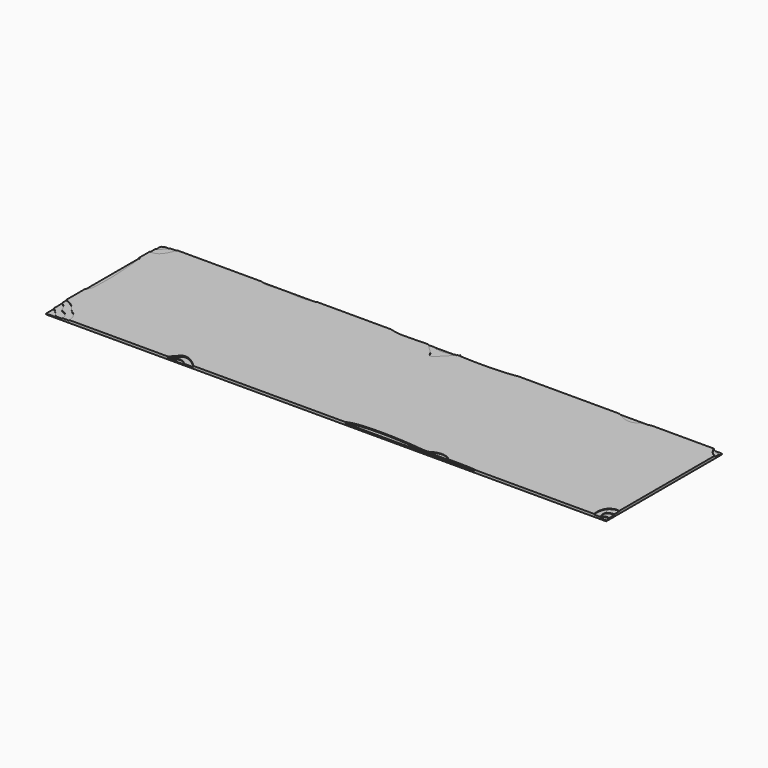
from build123d import *

# Parameters (mm, degrees)
F0_W     = 255.466666
F0_H     = 65.999307
F1_DEPTH = 1.2
F3_DEPTH = 0.8
F4_DEPTH = 0.5
F5_DEPTH = 0.25


with BuildPart() as f1:
    # F0 (on Top) → F1 (new body)
    with BuildSketch(Plane.XY):
        with Locations((130.610639, 67.4597295)):
            Rectangle(F0_W, F0_H)
    extrude(amount=F1_DEPTH)

    # F2 (on face) → F3 (cut)
    with BuildSketch(Plane.XY.offset(1.2)):
        Polygon((2.877306, 100.459383), (2.877306, 99.2435484793), (3.021559, 99.334143), (3.265042, 99.507228), (3.493414, 99.691552), (3.705747, 99.88709), (3.901115, 100.093818), (4.078592, 100.31171), (4.1808890512, 100.459383), align=None)
        Polygon((2.877306, 38.7948509159), (2.877306, 34.460076), (7.2787541615, 34.460076), (7.256907, 34.494204), (7.170691, 34.613388), (6.976267, 34.857231), (6.512846, 35.412248), (6.19818, 35.773556), (5.837766, 36.173188), (5.438772, 36.59799), (5.008366, 37.034804), (4.553715, 37.470474), (4.081985, 37.891844), (3.600346, 38.285757), (3.358049, 38.468307), (3.115963, 38.639058), align=None)
        Polygon((60.53402, 34.648289), (60.3582702038, 34.460076), (66.0947354547, 34.460076), (65.844558, 34.665957), (65.592715, 34.859333), (65.340937, 35.042719), (65.089678, 35.215229), (64.839387, 35.375979), (64.590518, 35.524082), (64.343522, 35.658655), (64.098851, 35.77881), (63.856957, 35.883664), (63.618291, 35.97233), (63.383305, 36.043923), (63.152452, 36.097559), (62.926182, 36.13235), (62.704948, 36.147413), (62.489202, 36.141862), (62.279395, 36.114812), (62.075979, 36.065376), (61.879405, 35.992671), (61.690127, 35.895809), (61.508595, 35.773907), (61.335261, 35.626079), (61.170577, 35.451439), (61.014996, 35.249102), (60.864158, 35.043213), (60.70352, 34.843104), align=None)
        Polygon((255.846045, 34.668876), (255.837548856, 34.460076), (258.343972, 34.460076), (258.343972, 36.1139409476), (257.852967, 36.223479), (257.65214, 36.258137), (257.463683, 36.278211), (257.287297, 36.28416), (257.122685, 36.276443), (256.969547, 36.255518), (256.827584, 36.221845), (256.696497, 36.175882), (256.575986, 36.118089), (256.465754, 36.048925), (256.365501, 35.968848), (256.274928, 35.878318), (256.193736, 35.777793), (256.121627, 35.667733), (256.0583, 35.548597), (256.003458, 35.420843), (255.956801, 35.28493), (255.91803, 35.141318), (255.886846, 34.990466), (255.862951, 34.832832), align=None)
        Polygon((258.133834, 98.851997), (258.343972, 98.8066264079), (258.343972, 100.459383), (254.9705361208, 100.459383), (254.978898, 100.452683), (255.27952, 100.228536), (255.585661, 100.016739), (255.896491, 99.818), (256.21118, 99.633028), (256.528896, 99.462532), (256.848811, 99.30722), (257.170092, 99.167802), (257.49191, 99.044986), (257.813434, 98.939482), align=None)
        Polygon((124.6993980387, 100.459383), (107.3982025616, 100.459383), (107.595793, 100.397869), (108.055712, 100.267898), (108.553016, 100.139741), (109.088256, 100.013465), (109.661987, 99.889137), (110.274763, 99.766827), (110.927137, 99.646601), (111.287587, 99.595734), (111.732684, 99.554824), (112.25682, 99.523259), (112.854389, 99.500427), (113.519785, 99.485714), (114.247401, 99.478509), (115.866864, 99.484172), (117.667926, 99.512516), (119.605733, 99.558643), (121.63543, 99.617651), (123.712165, 99.684642), (125.1631565065, 99.7334180179), (124.935927, 100.062966), (124.725684, 100.408805), align=None)
        Polygon((125.8266011162, 100.459383), (124.6993980387, 100.459383), (124.725684, 100.408805), (124.935927, 100.062966), (125.1631565065, 99.7334180179), (127.6285350032, 99.8162933104), (126.945207, 100.047647), (126.106336, 100.350016), align=None)
        Polygon((139.0520137849, 100.459383), (125.8266011162, 100.459383), (126.106336, 100.350016), (126.945207, 100.047647), (127.6285350032, 99.8162933104), (127.827332, 99.822976), (131.592403, 99.934449), (133.231519, 99.967864), (134.648551, 99.979865), (135.259767, 99.976305), (135.798643, 99.965553), (136.259571, 99.946999), (136.636944, 99.920029), (137.3443546456, 99.8575968767), (137.858013, 100.018841), (138.78026, 100.32885), (139.013110285, 100.4127183446), align=None)
        Polygon((138.83596, 100.200227), (139.013110285, 100.4127183446), (138.78026, 100.32885), (137.858013, 100.018841), (137.3443546456, 99.8575968767), (137.433108, 99.849764), (138.292761, 99.782758), (138.4669161482, 99.770763512), align=None)
        Polygon((165.3949709922, 100.459383), (139.1426690399, 100.459383), (139.013110285, 100.4127183446), (138.83596, 100.200227), (138.4669161482, 99.770763512), (139.211053, 99.719513), (140.183134, 99.660529), (142.269267, 99.557342), (144.512363, 99.477197), (145.680649, 99.447015), (146.873627, 99.424093), (148.086447, 99.408931), (149.31426, 99.40203), (150.552217, 99.403888), (151.795468, 99.415007), (153.039163, 99.435887), (154.278453, 99.467026), (155.508488, 99.508925), (156.724419, 99.562084), (157.921397, 99.627004), (159.09457, 99.704183), (160.239091, 99.794122), (161.35011, 99.897321), (162.422776, 100.01428), (163.45224, 100.145499), (164.433654, 100.291477), (165.362167, 100.452715), align=None)
    extrude(amount=-F3_DEPTH, mode=Mode.SUBTRACT)

    # F2 (on face) → F4 (cut)
    with BuildSketch(Plane.XY.offset(1.2)):
        Polygon((2.877306, 99.2435484793), (2.877306, 96.9359968944), (3.005516, 96.932643), (3.120366, 96.937236), (3.232609, 96.950046), (3.342343, 96.970702), (3.449661, 96.998834), (3.657438, 97.076043), (3.856703, 97.178709), (4.048224, 97.303868), (4.232765, 97.448557), (4.411091, 97.60981), (4.583969, 97.784665), (4.752163, 97.970156), (4.916439, 98.16332), (5.236298, 98.560811), (5.549668, 98.953425), (5.862674, 99.317449), (6.067727, 99.551504), (6.259089, 99.798241), (6.430791, 100.058168), (6.507404, 100.193236), (6.576864, 100.331793), (6.6337198281, 100.459383), (4.1808890512, 100.459383), (4.078592, 100.31171), (3.901115, 100.093818), (3.705747, 99.88709), (3.493414, 99.691552), (3.265042, 99.507228), (3.021559, 99.334143), align=None)
        Polygon((2.877306, 43.50611725), (2.877306, 38.7948509159), (3.115963, 38.639058), (3.358049, 38.468307), (3.600346, 38.285757), (4.081985, 37.891844), (4.553715, 37.470474), (5.008366, 37.034804), (5.438772, 36.59799), (5.837766, 36.173188), (6.19818, 35.773556), (6.512846, 35.412248), (6.976267, 34.857231), (7.170691, 34.613388), (7.256907, 34.494204), (7.2787541615, 34.460076), (10.4562346511, 34.460076), (10.39951, 34.742005), (10.344896, 35.07658), (10.305969, 35.324376), (10.252122, 35.570249), (10.179957, 35.81077), (10.086077, 36.042506), (9.971118, 36.276847), (9.846612, 36.507801), (9.712334, 36.733991), (9.56806, 36.954041), (9.413566, 37.166576), (9.248628, 37.370218), (9.073023, 37.563593), (8.886525, 37.745324), (8.743228, 37.865129), (8.590833, 37.973045), (8.430745, 38.070876), (8.264369, 38.160425), (7.918366, 38.321888), (7.564059, 38.471859), (7.21268, 38.624764), (6.875463, 38.795026), (6.715676, 38.891174), (6.563642, 38.997071), (6.420765, 39.11452), (6.288449, 39.245324), (6.197599, 39.353185), (6.116026, 39.467133), (6.042623, 39.58646), (5.976281, 39.710455), (5.860348, 39.969614), (5.759363, 40.238933), (5.566776, 40.785345), (5.457446, 41.051085), (5.327603, 41.304279), (5.124002, 41.645594), (5.007038, 41.804748), (4.941515, 41.877711), (4.870058, 41.944843), (4.515025, 42.259608), (4.134135, 42.602605), (3.733843, 42.943348), (3.528438, 43.103347), (3.320602, 43.25135), (3.111144, 43.383548), (2.900868, 43.496128), align=None)
        Polygon((58.495627, 34.657704), (58.2563575673, 34.460076), (60.3582702038, 34.460076), (60.53402, 34.648289), (60.70352, 34.843104), (60.864158, 35.043213), (61.014996, 35.249102), (61.170577, 35.451439), (61.335261, 35.626079), (61.508595, 35.773907), (61.690127, 35.895809), (61.879405, 35.992671), (62.075979, 36.065376), (62.279395, 36.114812), (62.489202, 36.141862), (62.704948, 36.147413), (62.926182, 36.13235), (63.152452, 36.097559), (63.383305, 36.043923), (63.618291, 35.97233), (63.856957, 35.883664), (64.098851, 35.77881), (64.343522, 35.658655), (64.590518, 35.524082), (64.839387, 35.375979), (65.089678, 35.215229), (65.340937, 35.042719), (65.592715, 34.859333), (65.844558, 34.665957), (66.0947354547, 34.460076), (70.1043866723, 34.460076), (69.947823, 34.612853), (69.570602, 34.969414), (69.189662, 35.317314), (68.80577, 35.655051), (68.419692, 35.981121), (68.032196, 36.294022), (67.644047, 36.592251), (67.256014, 36.874306), (66.868862, 37.138683), (66.483359, 37.38388), (66.100272, 37.608395), (65.720367, 37.810723), (65.344412, 37.989364), (64.973173, 38.142813), (64.607417, 38.269568), (64.247911, 38.368126), (63.895421, 38.436986), (63.722048, 38.459808), (63.550716, 38.474642), (63.381522, 38.4813), (63.214561, 38.479594), (63.049929, 38.469336), (62.887723, 38.450339), (62.728038, 38.422413), (62.57097, 38.385372), (62.416615, 38.339028), (62.265068, 38.283193), (62.116426, 38.217679), (61.970784, 38.142298), (61.828238, 38.056862), (61.688885, 37.961184), (61.552819, 37.855075), (61.420137, 37.738348), (61.290935, 37.610815), (61.165308, 37.472288), (61.043353, 37.322579), (60.925165, 37.161501), (60.671708, 36.817823), (60.399833, 36.485027), (60.111572, 36.162057), (59.808958, 35.84786), (59.494023, 35.54138), (59.168802, 35.241564), (58.835325, 34.947357), align=None)
        Polygon((127.827332, 99.822976), (127.6285350032, 99.8162933104), (127.76885, 99.768787), (128.559685, 99.512263), (129.972615, 99.061524), (130.559552, 98.864963), (131.043364, 98.686043), (131.117803, 98.660903), (131.202728, 98.640647), (131.402652, 98.614318), (131.640368, 98.606116), (131.913106, 98.615101), (132.218097, 98.640331), (132.552572, 98.680867), (132.913762, 98.735768), (133.298896, 98.804095), (133.705207, 98.884905), (134.129925, 98.97726), (135.023505, 99.192841), (135.957482, 99.443313), (136.909703, 99.721154), (137.3443546456, 99.8575968767), (136.636944, 99.920029), (136.259571, 99.946999), (135.798643, 99.965553), (135.259767, 99.976305), (134.648551, 99.979865), (133.231519, 99.967864), (131.592403, 99.934449), align=None)
        Polygon((258.305812, 96.53581), (258.343972, 96.5358903128), (258.343972, 98.8066264079), (258.133834, 98.851997), (257.813434, 98.939482), (257.49191, 99.044986), (257.170092, 99.167802), (256.848811, 99.30722), (256.528896, 99.462532), (256.21118, 99.633028), (255.896491, 99.818), (255.585661, 100.016739), (255.27952, 100.228536), (254.978898, 100.452683), (254.9705361208, 100.459383), (254.6514905633, 100.459383), (254.788613, 100.148904), (255.017557, 99.684254), (255.263541, 99.234845), (255.525695, 98.802732), (255.80315, 98.389975), (256.095036, 97.998629), (256.400484, 97.630751), (256.718623, 97.288399), (257.048584, 96.973631), (257.137006, 96.900192), (257.228989, 96.834604), (257.324357, 96.776526), (257.422933, 96.72562), (257.629002, 96.643963), (257.845781, 96.586919), (258.071856, 96.551773), align=None)
        Polygon((255.606434, 34.474841), (255.6149795978, 34.460076), (255.837548856, 34.460076), (255.846045, 34.668876), (255.862951, 34.832832), (255.886846, 34.990466), (255.91803, 35.141318), (255.956801, 35.28493), (256.003458, 35.420843), (256.0583, 35.548597), (256.121627, 35.667733), (256.193736, 35.777793), (256.274928, 35.878318), (256.365501, 35.968848), (256.465754, 36.048925), (256.575986, 36.118089), (256.696497, 36.175882), (256.827584, 36.221845), (256.969547, 36.255518), (257.122685, 36.276443), (257.287297, 36.28416), (257.463683, 36.278211), (257.65214, 36.258137), (257.852967, 36.223479), (258.343972, 36.1139409476), (258.343972, 39.2427234664), (258.005349, 39.217237), (257.671804, 39.176), (257.345183, 39.118747), (257.026267, 39.045133), (256.715833, 38.954811), (256.41466, 38.847437), (256.123527, 38.722665), (255.843212, 38.58015), (255.574494, 38.419545), (255.485352, 38.355637), (255.405451, 38.285488), (255.33442, 38.209412), (255.271887, 38.127724), (255.217482, 38.040739), (255.170832, 37.948771), (255.131567, 37.852137), (255.099315, 37.75115), (255.054364, 37.537378), (255.033009, 37.309975), (255.032278, 37.071459), (255.049202, 36.82435), (255.080807, 36.571167), (255.124125, 36.314429), (255.234011, 35.800363), (255.355091, 35.302303), (255.463598, 34.840402), (255.488763, 34.745642), (255.521877, 34.653336), align=None)
        Polygon((139.61159, 34.568067), (139.4219565917, 34.460076), (175.989919938, 34.460076), (176.142156, 34.577707), (176.420972, 34.782719), (176.701988, 34.978866), (176.7586013074, 35.0162709388), (175.972513, 35.029223), (174.556002, 35.069447), (173.945331, 35.095528), (173.407218, 35.126129), (172.947287, 35.161656), (172.571164, 35.202514), (171.77813, 35.30207), (170.92153, 35.400708), (170.006192, 35.497749), (169.036945, 35.592514), (166.956031, 35.772504), (164.717411, 35.935253), (163.551032, 36.008466), (162.359709, 36.075333), (161.148271, 36.135176), (159.921546, 36.187318), (158.684361, 36.231079), (157.441545, 36.265781), (156.197925, 36.290746), (154.95833, 36.305295), (153.727586, 36.308751), (152.510522, 36.300434), (151.311965, 36.279668), (150.136744, 36.245772), (148.989686, 36.198069), (147.87562, 36.135881), (146.799372, 36.058529), (145.765771, 35.965335), (144.779645, 35.85562), (143.845821, 35.728707), (142.969128, 35.583917), (142.553714, 35.504606), (142.154393, 35.420571), (141.771768, 35.331728), (141.406443, 35.237991), (141.059022, 35.139277), (140.730108, 35.0355), (140.420304, 34.926575), (140.130214, 34.812418), (139.860441, 34.692943), align=None)
        Polygon((176.142156, 34.577707), (175.989919938, 34.460076), (186.37686416, 34.460076), (186.371318, 34.468631), (186.144429, 34.769411), (185.9771689949, 34.9592462824), (185.495838, 34.961466), (181.378369, 34.974869), (177.611747, 35.002214), (176.7586013074, 35.0162709388), (176.701988, 34.978866), (176.420972, 34.782719), align=None)
        Polygon((186.371318, 34.468631), (186.37686416, 34.460076), (198.5802160574, 34.460076), (198.273584, 34.528356), (197.915254, 34.592471), (197.471967, 34.649755), (196.94935, 34.700613), (196.353028, 34.74545), (195.688626, 34.784672), (194.96177, 34.818685), (193.343198, 34.872702), (191.542315, 34.910746), (189.604125, 34.936059), (187.573631, 34.951884), (185.9771689949, 34.9592462824), (186.144429, 34.769411), align=None)
    extrude(amount=-F4_DEPTH, mode=Mode.SUBTRACT)

    # F2 (on face) → F5 (cut)
    with BuildSketch(Plane.XY.offset(1.2)):
        Polygon((2.877306, 96.9359968944), (2.877306, 93.5483612533), (3.00113, 93.534117), (3.314804, 93.508319), (3.620098, 93.494644), (3.917383, 93.493925), (4.207025, 93.506992), (4.489393, 93.534678), (4.764855, 93.577813), (5.03378, 93.63723), (5.296535, 93.713759), (5.553489, 93.808233), (5.80501, 93.921482), (6.051466, 94.054338), (6.293226, 94.207632), (6.530657, 94.382197), (6.764128, 94.578864), (6.994006, 94.798463), (7.220661, 95.041827), (7.444461, 95.309787), (7.665773, 95.603175), (7.884965, 95.922822), (8.102407, 96.269559), (8.318465, 96.644218), (8.533509, 97.047631), (8.747907, 97.480629), (8.962026, 97.944043), (9.176236, 98.438705), (9.390903, 98.965447), (9.606397, 99.525099), (9.770774, 99.990334), (9.913210256, 100.459383), (6.6337198281, 100.459383), (6.576864, 100.331793), (6.507404, 100.193236), (6.430791, 100.058168), (6.259089, 99.798241), (6.067727, 99.551504), (5.862674, 99.317449), (5.549668, 98.953425), (5.236298, 98.560811), (4.916439, 98.16332), (4.752163, 97.970156), (4.583969, 97.784665), (4.411091, 97.60981), (4.232765, 97.448557), (4.048224, 97.303868), (3.856703, 97.178709), (3.657438, 97.076043), (3.449661, 96.998834), (3.342343, 96.970702), (3.232609, 96.950046), (3.120366, 96.937236), (3.005516, 96.932643), align=None)
        Polygon((2.877306, 45.8949981627), (2.877306, 43.50611725), (2.900868, 43.496128), (3.111144, 43.383548), (3.320602, 43.25135), (3.528438, 43.103347), (3.733843, 42.943348), (4.134135, 42.602605), (4.515025, 42.259608), (4.870058, 41.944843), (4.941515, 41.877711), (5.007038, 41.804748), (5.124002, 41.645594), (5.327603, 41.304279), (5.457446, 41.051085), (5.566776, 40.785345), (5.759363, 40.238933), (5.860348, 39.969614), (5.976281, 39.710455), (6.042623, 39.58646), (6.116026, 39.467133), (6.197599, 39.353185), (6.288449, 39.245324), (6.420765, 39.11452), (6.563642, 38.997071), (6.715676, 38.891174), (6.875463, 38.795026), (7.21268, 38.624764), (7.564059, 38.471859), (7.918366, 38.321888), (8.264369, 38.160425), (8.430745, 38.070876), (8.590833, 37.973045), (8.743228, 37.865129), (8.886525, 37.745324), (9.073023, 37.563593), (9.248628, 37.370218), (9.413566, 37.166576), (9.56806, 36.954041), (9.712334, 36.733991), (9.846612, 36.507801), (9.971118, 36.276847), (10.086077, 36.042506), (10.179957, 35.81077), (10.252122, 35.570249), (10.305969, 35.324376), (10.344896, 35.07658), (10.39951, 34.742005), (10.4562346511, 34.460076), (13.4543560729, 34.460076), (13.458378, 34.6031), (13.446029, 34.950424), (13.410926, 35.304985), (13.352224, 35.6668), (13.269082, 36.035888), (13.160657, 36.412265), (13.026104, 36.795951), (12.864581, 37.186961), (12.675245, 37.585316), (12.457254, 37.991031), (12.254251, 38.333068), (12.036163, 38.665616), (11.90565, 38.82826), (11.742846, 38.991298), (11.55111, 39.157306), (11.333798, 39.328863), (10.835878, 39.698934), (10.275944, 40.122135), (9.981115, 40.360103), (9.680854, 40.619088), (9.378519, 40.901666), (9.077467, 41.210415), (8.781055, 41.547914), (8.49264, 41.91674), (8.21558, 42.319471), (8.082357, 42.534357), (7.953232, 42.758685), (7.894728, 42.833804), (7.767617, 42.970817), (7.576379, 43.16018), (7.325497, 43.392348), (7.019453, 43.65778), (6.662729, 43.94693), (6.259808, 44.250256), (5.815169, 44.558213), (5.333297, 44.861257), (5.079799, 45.007955), (4.818673, 45.149846), (4.550479, 45.285737), (4.275778, 45.414435), (3.99513, 45.534748), (3.709095, 45.645481), (3.418234, 45.745443), (3.123106, 45.83344), align=None)
        Polygon((127.6285350032, 99.8162933104), (125.1631565065, 99.7334180179), (125.171006, 99.722034), (125.427872, 99.385867), (125.703479, 99.054324), (125.99478, 98.727261), (126.298726, 98.404537), (126.612272, 98.086009), (126.93237, 97.771535), (127.580031, 97.154181), (128.217333, 96.551336), (128.819897, 95.961863), (129.100535, 95.671786), (129.363346, 95.384624), (129.605284, 95.100237), (129.823302, 94.818481), (130.014352, 94.539215), (130.175387, 94.262297), (130.303359, 93.987583), (130.353995, 93.851009), (130.395223, 93.714933), (130.458863, 93.521329), (130.536195, 93.361684), (130.626516, 93.23449), (130.676327, 93.182591), (130.729121, 93.138239), (130.784811, 93.101247), (130.843308, 93.071425), (130.968371, 93.032539), (131.103609, 93.020075), (131.248317, 93.032525), (131.401791, 93.068381), (131.563329, 93.126137), (131.732225, 93.204285), (131.907778, 93.301317), (132.089283, 93.415726), (132.276037, 93.546006), (132.467335, 93.690647), (132.662476, 93.848144), (133.061466, 94.195672), (133.467378, 94.576532), (133.874585, 94.978665), (134.277456, 95.390011), (135.047679, 96.192108), (135.733015, 96.886351), (136.46178, 97.60856), (137.234756, 98.410185), (138.032599, 99.278362), (138.434798, 99.733387), (138.4669161482, 99.770763512), (138.292761, 99.782758), (137.433108, 99.849764), (137.3443546456, 99.8575968767), (136.909703, 99.721154), (135.957482, 99.443313), (135.023505, 99.192841), (134.129925, 98.97726), (133.705207, 98.884905), (133.298896, 98.804095), (132.913762, 98.735768), (132.552572, 98.680867), (132.218097, 98.640331), (131.913106, 98.615101), (131.640368, 98.606116), (131.402652, 98.614318), (131.202728, 98.640647), (131.117803, 98.660903), (131.043364, 98.686043), (130.559552, 98.864963), (129.972615, 99.061524), (128.559685, 99.512263), (127.76885, 99.768787), align=None)
        Polygon((185.495838, 34.961466), (185.9771689949, 34.9592462824), (185.894057, 35.053576), (185.759546, 35.189089), (185.618543, 35.320041), (185.47084, 35.446298), (185.316229, 35.567724), (185.154504, 35.684183), (184.985456, 35.795541), (184.808879, 35.901661), (184.624565, 36.002408), (184.432308, 36.097646), (184.231898, 36.187242), (184.02313, 36.271058), (183.805796, 36.348959), (183.579688, 36.420811), (183.3446, 36.486477), (183.100324, 36.545822), (182.846652, 36.598711), (182.55399, 36.647604), (182.260387, 36.68228), (181.965992, 36.702994), (181.670954, 36.710001), (181.375423, 36.703556), (181.079548, 36.683914), (180.78348, 36.651329), (180.487368, 36.606057), (180.191362, 36.548351), (179.89561, 36.478467), (179.600264, 36.39666), (179.305472, 36.303185), (179.011384, 36.198296), (178.71815, 36.082248), (178.425919, 35.955295), (178.134842, 35.817694), (177.845067, 35.669698), (177.556745, 35.511562), (177.270024, 35.343542), (176.985055, 35.165891), (176.7586013074, 35.0162709388), (177.611747, 35.002214), (181.378369, 34.974869), align=None)
        Polygon((252.782348, 34.655437), (252.811699952, 34.460076), (255.6149795978, 34.460076), (255.606434, 34.474841), (255.521877, 34.653336), (255.488763, 34.745642), (255.463598, 34.840402), (255.355091, 35.302303), (255.234011, 35.800363), (255.124125, 36.314429), (255.080807, 36.571167), (255.049202, 36.82435), (255.032278, 37.071459), (255.033009, 37.309975), (255.054364, 37.537378), (255.099315, 37.75115), (255.131567, 37.852137), (255.170832, 37.948771), (255.217482, 38.040739), (255.271887, 38.127724), (255.33442, 38.209412), (255.405451, 38.285488), (255.485352, 38.355637), (255.574494, 38.419545), (255.843212, 38.58015), (256.123527, 38.722665), (256.41466, 38.847437), (256.715833, 38.954811), (257.026267, 39.045133), (257.345183, 39.118747), (257.671804, 39.176), (258.005349, 39.217237), (258.343972, 39.2427234664), (258.343972, 41.9322943172), (258.267436, 41.948666), (257.815386, 42.034187), (257.5370331945, 42.0787483869), (257.460441, 42.09101), (257.213369, 42.120082), (257.084938, 42.122347), (256.788751, 42.067144), (256.505384, 42.001761), (256.234582, 41.926545), (255.976086, 41.841843), (255.729641, 41.748001), (255.49499, 41.645367), (255.271877, 41.534286), (255.060044, 41.415106), (254.859235, 41.288173), (254.669194, 41.153834), (254.489664, 41.012437), (254.320389, 40.864326), (254.161111, 40.70985), (254.011574, 40.549355), (253.871522, 40.383187), (253.740698, 40.211694), (253.618846, 40.035223), (253.505708, 39.854119), (253.401028, 39.668729), (253.304549, 39.479401), (253.216016, 39.286481), (253.135171, 39.090316), (253.061757, 38.891253), (252.995519, 38.689638), (252.883541, 38.280139), (252.797185, 37.864594), (252.734396, 37.445777), (252.693123, 37.026462), (252.671313, 36.609422), (252.666912, 36.197431), (252.677868, 35.793263), (252.702128, 35.399693), (252.737639, 35.019493), align=None)
        Polygon((226.7016095487, 100.459383), (211.5639811097, 100.459383), (211.927215, 100.257014), (212.694313, 99.817593), (213.457412, 99.386654), (214.219895, 98.980614), (214.601962, 98.792062), (214.985144, 98.61589), (215.369863, 98.454152), (215.756542, 98.308899), (216.145603, 98.182183), (216.53747, 98.076056), (216.932566, 97.992571), (217.331312, 97.93378), (217.734133, 97.901734), (218.14145, 97.898487), (218.346927, 97.908303), (218.553686, 97.926089), (218.761782, 97.9521), (218.971265, 97.986593), (219.18219, 98.029825), (219.394609, 98.082052), (219.608575, 98.14353), (219.824141, 98.214516), (220.04136, 98.295267), (220.260284, 98.386039), (220.480966, 98.487089), (220.70346, 98.598673), (220.927818, 98.721047), (221.154092, 98.854469), (221.382337, 98.999194), (221.612604, 99.15548), (221.707775, 99.21512), (221.823159, 99.275105), (222.111822, 99.396185), (222.473103, 99.518871), (222.901511, 99.643315), (223.391556, 99.769668), (223.937747, 99.898082), (224.534595, 100.028708), (225.176609, 100.161697), (226.574172, 100.435372), align=None)
        Polygon((73.8430898806, 100.459383), (48.4860613825, 100.459383), (48.603851, 100.375244), (48.804299, 100.245273), (49.021039, 100.117116), (49.254314, 99.99084), (49.504364, 99.866512), (49.771432, 99.744202), (50.055757, 99.623976), (50.212853, 99.573109), (50.40684, 99.532199), (50.635276, 99.500634), (50.895715, 99.477802), (51.185716, 99.463089), (51.502834, 99.455884), (52.208648, 99.461547), (52.993609, 99.489892), (53.838167, 99.536018), (54.722774, 99.595026), (55.627881, 99.662017), (57.421402, 99.800351), (59.062341, 99.911824), (59.77672, 99.945239), (60.394307, 99.95724), (60.660695, 99.95368), (60.895554, 99.942928), (61.096441, 99.924374), (61.260912, 99.897404), (61.607906, 99.827139), (61.98257, 99.760133), (62.382791, 99.696888), (62.806455, 99.637904), (63.715659, 99.534717), (64.693272, 99.454572), (65.202448, 99.42439), (65.722386, 99.401468), (66.250972, 99.386306), (66.786092, 99.379405), (67.325633, 99.381263), (67.867482, 99.392382), (68.409524, 99.413262), (68.949646, 99.444401), (69.485735, 99.4863), (70.015676, 99.539459), (70.537357, 99.604379), (71.048664, 99.681558), (71.547482, 99.771497), (72.0317, 99.874696), (72.499202, 99.991655), (72.947875, 100.122874), (73.375607, 100.268852), (73.780282, 100.43009), align=None)
        Polygon((2.877306, 87.2638815076), (2.877306, 56.4084573374), (3.029804, 56.574911), (3.184789, 56.757916), (3.329146, 56.942885), (3.463251, 57.129955), (3.58748, 57.319262), (3.702205, 57.510942), (3.807804, 57.705129), (3.904649, 57.901961), (3.993117, 58.101573), (4.073581, 58.304101), (4.146417, 58.50968), (4.212, 58.718447), (4.322904, 59.146087), (4.409292, 59.588107), (4.474163, 60.045595), (4.520515, 60.519636), (4.551347, 61.011318), (4.569657, 61.521727), (4.578445, 62.051951), (4.580707, 62.603076), (4.595174, 64.85248), (4.619286, 67.103738), (4.624108, 69.354665), (4.610244, 70.479321), (4.580707, 71.603076), (4.50243, 73.408797), (4.388019, 75.434306), (4.246672, 77.583436), (4.087587, 79.760018), (3.919961, 81.867883), (3.75299, 83.810863), (3.595873, 85.492788), (3.457806, 86.817491), (3.439111, 86.932385), (3.411182, 87.029459), (3.374328, 87.109579), (3.328854, 87.173607), (3.275067, 87.222406), (3.213275, 87.25684), (3.143785, 87.277772), (3.066903, 87.286066), (2.982937, 87.282584), (2.892193, 87.268191), align=None)
    extrude(amount=-F5_DEPTH, mode=Mode.SUBTRACT)


solid = f1.part
